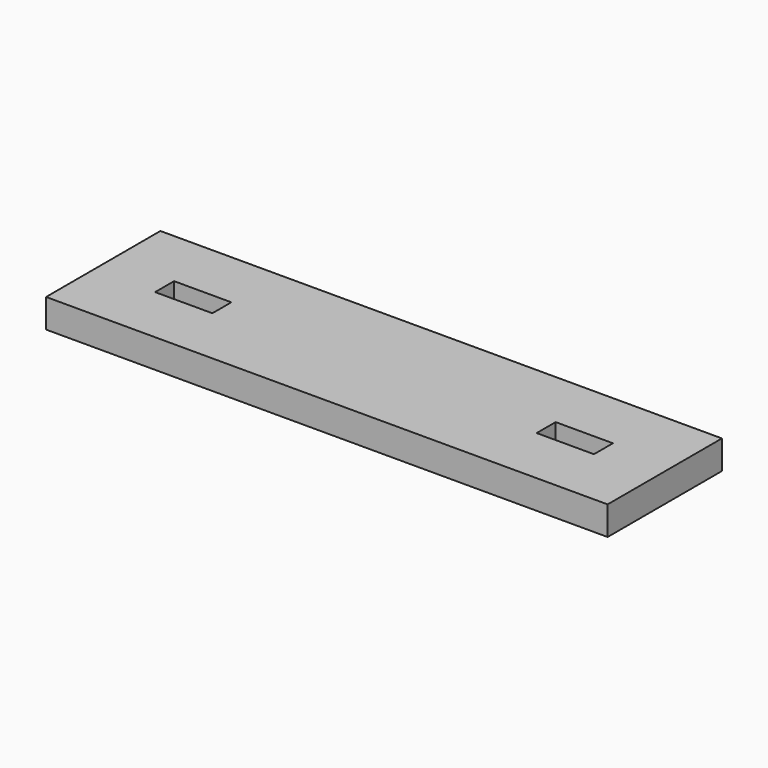
from build123d import *

# Parameters (mm, degrees)
F0_W     = 101.6
F0_H     = 25.851722
F1_DEPTH = 5.2


with BuildPart() as f1:
    # F0 (on Top) → F1 (new body)
    with BuildSketch(Plane.XY):
        Rectangle(F0_W, F0_H)
        Polygon((-39.7002, -2.1463), (-39.7002, 0), (-39.7002, 2.1463), (-29.337, 2.1463), (-29.337, 0), (-29.337, -2.1463), align=None, mode=Mode.SUBTRACT)
        Polygon((29.337, 2.1463), (39.7002, 2.1463), (39.7002, 0), (39.7002, -2.1463), (29.337, -2.1463), (29.337, 0), align=None, mode=Mode.SUBTRACT)
    extrude(amount=F1_DEPTH)


solid = f1.part
